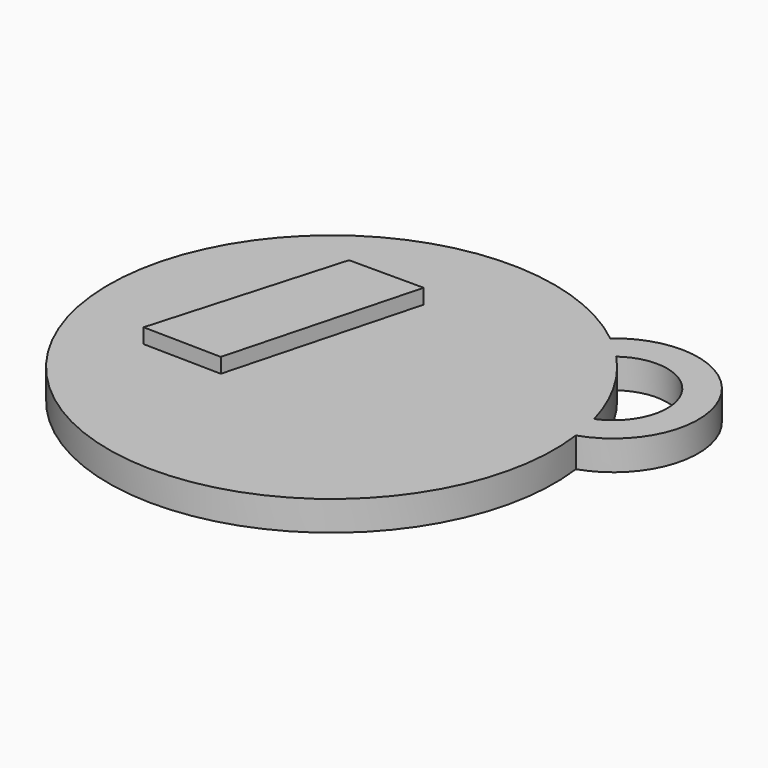
from build123d import *

# Parameters (mm, degrees)
F1_DEPTH = 4
F3_DEPTH = 2


with BuildPart() as f1:
    # F0 (on Top) → F1 (new body)
    with BuildSketch(Plane.XY):
        with BuildLine():
            ThreePointArc((18.939283, 23.590199), (-25.962329, -14.538319), (29.925106, 4.077085))
            ThreePointArc((29.925106, 4.077085), (36.258822, 20.491997), (18.939283, 23.590199))
        make_face()
        with BuildLine():
            ThreePointArc((22.029397, 20.736062), (32.635662, 18.452168), (29.087509, 8.199382))
            ThreePointArc((29.087509, 8.199382), (26.321098, 14.897089), (22.029397, 20.736062))
        make_face(mode=Mode.SUBTRACT)
    extrude(amount=F1_DEPTH)

    # F2 (on face) → F3 (join)
    with BuildSketch(Plane.XY.offset(4)):
        Polygon((-11.189207, 17.327955), (-18.506745, -8.068205), (-7.962489, -8.2658), (-1.145528, 17.327955), align=None)
    extrude(amount=F3_DEPTH)


solid = f1.part
